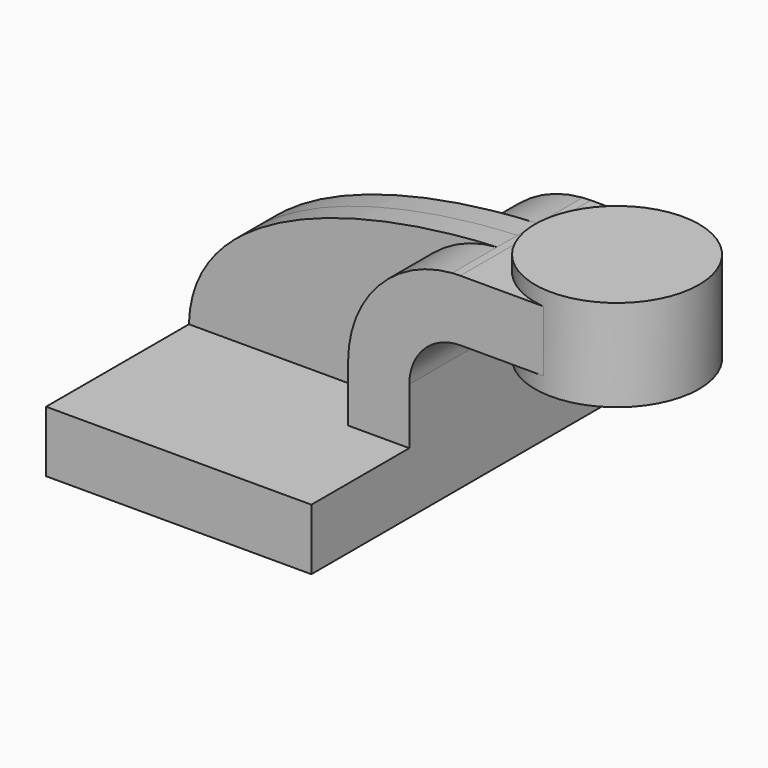
from build123d import *

# Parameters (mm, degrees)
F1_DEPTH = 63.5
F0_W     = 25.2717524765
F0_H     = 19.05
F2_DEPTH = 25.4
F3_DEPTH = 7.9375


with BuildPart() as f1:
    # F0 (on Front) → F1 (new body, symmetric)
    with BuildSketch(Plane.XZ):
        Polygon((22.225, 9.525), (-41.275, 9.525), (-41.275, -9.525), (41.275, -9.525), (41.275, 9.525), align=None)
    extrude(amount=F1_DEPTH, both=True)

    # F0 (on Front) → F2 (join, symmetric)
    with BuildSketch(Plane.XZ):
        with BuildLine():
            Line((22.225, 27.0002), (22.225, 9.525))
            Line((22.225, 9.525), (41.275, 9.525))
            Line((41.275, 9.525), (41.275, 27.0002))
            ThreePointArc((41.275, 27.0002), (45.9246798487, 38.2255201513), (57.15, 42.8752))
            Line((57.15, 42.8752), (60.325, 42.8752))
            Line((60.325, 42.8752), (60.325, 61.9252))
            Line((60.325, 61.9252), (57.15, 61.9252))
            add(Edge.make_bspline(
                [(54.6000717025, 61.8319885082), (55.4560192886, 61.8684142099), (56.3061980805, 61.8994538624), (57.15, 61.9252)],
                knots=[109.2208050055, 109.2208050055, 109.2208050055, 109.2208050055, 111.5045361635, 111.5045361635, 111.5045361635, 111.5045361635], degree=3))
            ThreePointArc((54.6000717025, 61.8319885082), (31.5686408611, 50.7772832863), (22.225, 27.0002))
        make_face()
        with Locations((72.9608762383, 52.4002)):
            Rectangle(F0_W, F0_H)
    extrude(amount=F2_DEPTH, both=True)

    # F0 (on Front) → F3 (join, symmetric)
    with BuildSketch(Plane.XZ):
        with BuildLine():
            add(Edge.make_bspline(
                [(-41.275, 9.525), (-40.467228221, 46.0283825341), (13.6638677739, 60.0899075916), (54.6000717025, 61.8319885082)],
                knots=[0, 0, 0, 0, 109.2208050055, 109.2208050055, 109.2208050055, 109.2208050055], degree=3))
            Line((-41.275, 9.525), (22.225, 9.525))
            Line((22.225, 9.525), (22.225, 27.0002))
            ThreePointArc((22.225, 27.0002), (31.5686408611, 50.7772832863), (54.6000717025, 61.8319885082))
        make_face()
    extrude(amount=F3_DEPTH, both=True)

    # F0 (on Front) → F4 (revolve)
    with BuildSketch(Plane.XZ):
        Polygon((85.5967524765, 66.675), (85.5967524765, 61.9252), (85.5967524765, 42.8752), (85.5967524765, 38.1), (111.125, 38.1), (111.125, 66.675), align=None)
    revolve(axis=Axis((85.5967524765, 0, 52.3875), (0, 0, 1)))


solid = f1.part
